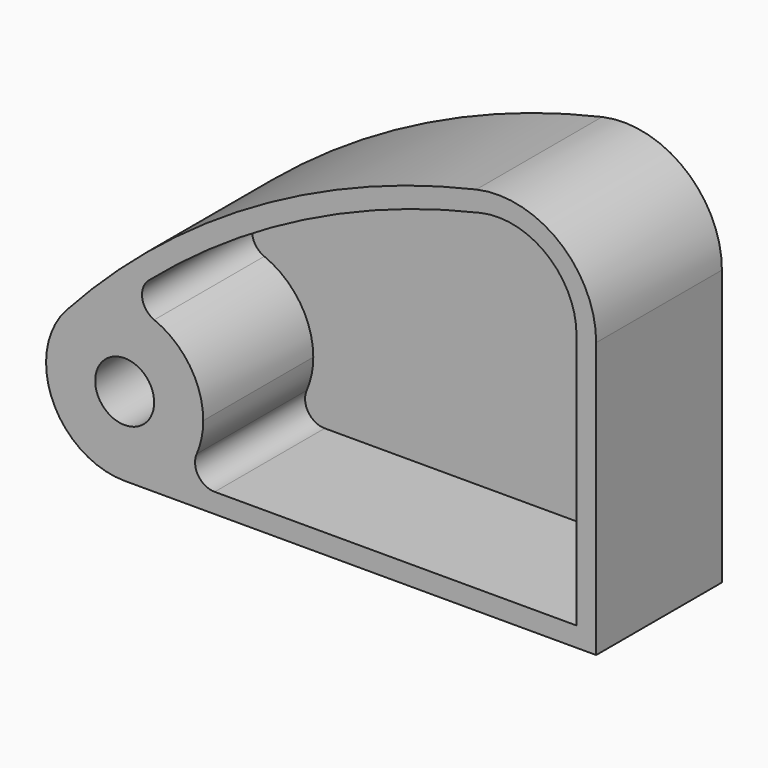
from build123d import *

# Parameters (mm, degrees)
F1_DEPTH = 50.8
F3_DEPTH = 44.45
F4_R     = 9.525
F5_DEPTH = 50.801
F6_R     = 6.35


with BuildPart() as f1:
    # F0 (on Front) → F1 (new body)
    with BuildSketch(Plane.XZ):
        with BuildLine():
            ThreePointArc((-18.842481, 17.032936), (9.125815, 23.703998), (25.4, 0))
            ThreePointArc((25.4, 0), (17.960512, -17.960512), (0, -25.4))
            Line((0, -25.4), (152.4, -25.4))
            Line((152.4, -25.4), (152.4, 63.5))
            ThreePointArc((152.4, 63.5), (100.824266, 38.70075), (113.659667, 94.470918))
            ThreePointArc((113.659667, 94.470918), (41.420002, 65.998851), (-18.842481, 17.032936))
        make_face()
        with BuildLine():
            ThreePointArc((152.4, 63.5), (140.475734, 88.29925), (113.659667, 94.470918))
            ThreePointArc((113.659667, 94.470918), (100.824266, 38.70075), (152.4, 63.5))
        make_face()
        with BuildLine():
            ThreePointArc((0, -25.4), (17.960512, -17.960512), (25.4, 0))
            ThreePointArc((25.4, 0), (9.125815, 23.703998), (-18.842481, 17.032936))
            ThreePointArc((-18.842481, 17.032936), (-23.214183, -10.308332), (0, -25.4))
        make_face()
    extrude(amount=F1_DEPTH)

    # F2 (on face) → F3 (cut)
    with BuildSketch(Plane.XZ.offset(50.8)):
        with BuildLine():
            ThreePointArc((115.057734, 88.276734), (52.250613, 64.79482), (-1.954932, 25.324657))
            ThreePointArc((-1.954932, 25.324657), (17.255503, 18.638874), (25.4, 0))
            ThreePointArc((25.4, 0), (23.150521, -10.450521), (16.800521, -19.05))
            Line((16.800521, -19.05), (146.05, -19.05))
            Line((146.05, -19.05), (146.05, 63.5))
            ThreePointArc((146.05, 63.5), (136.510587, 83.3394), (115.057734, 88.276734))
        make_face()
    extrude(amount=-F3_DEPTH, mode=Mode.SUBTRACT)

    # F4 (on face) → F5 (cut, through all)
    with BuildSketch(Plane.XZ.offset(50.8)):
        Circle(F4_R)
    extrude(amount=-F5_DEPTH, mode=Mode.SUBTRACT)

    # F6
    f6_edges = [f1.edges().sort_by_distance(p)[0] for p in [
        (16.800521, -28.575, -19.05),
        (-1.954932, -28.575, 25.324657),
    ]]
    fillet(f6_edges, radius=F6_R)


solid = f1.part
